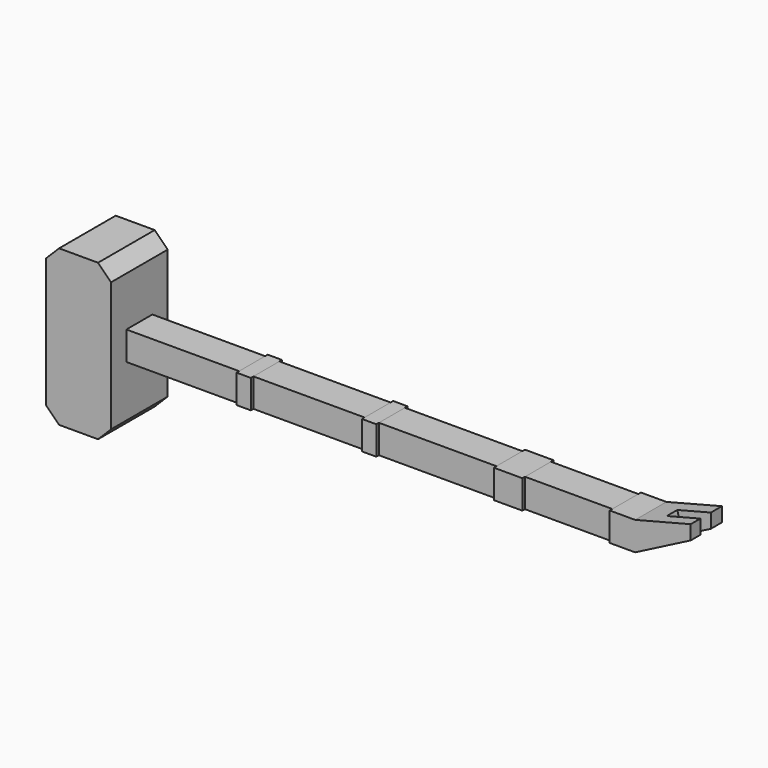
from build123d import *

# Parameters (mm, degrees)
F0_W     = 22.041556
F0_H     = 5.588
F0_W_2   = 21.731113
F0_W_3   = 22.972888
F0_W_4   = 17.074447
F1_DEPTH = 3.175
F2_W     = 13.836319
F2_H     = 30.379739
F3_DEPTH = 12.7
F0_W_5   = 2.794
F4_DEPTH = 3.81
F5_W     = 6.777749
F5_H     = 2.552284
F6_DEPTH = 12.7
F7_SIZE  = 2.54


with BuildPart() as f1:
    # F0 (on Front) → F1 (new body, symmetric)
    with BuildSketch(Plane.XZ):
        with Locations((-35.545891, 31.044446)):
            Rectangle(F0_W, F0_H)
        with Locations((-10.865557, 31.044446)):
            Rectangle(F0_W_2, F0_H)
        with Locations((14.280444, 31.044446)):
            Rectangle(F0_W_3, F0_H)
        with Locations((39.892111, 31.044446)):
            Rectangle(F0_W_4, F0_H)
    extrude(amount=F1_DEPTH, both=True)

    # F2 (on face) → F3 (join)
    with BuildSketch(Plane(origin=(-46.566669, 0, 0), x_dir=(0, -1, 0), z_dir=(-1, 0, 0))):
        with Locations((1e-06, 30.830921)):
            Rectangle(F2_W, F2_H)
    extrude(amount=F3_DEPTH)

    # F7
    f7_edges = [f1.edges().sort_by_distance(p)[0] for p in [
        (-59.266669, 0, 46.020791),
        (-59.266669, 0, 15.641052),
        (-46.566669, 0, 15.641052),
        (-46.566669, 0, 46.020791),
    ]]
    chamfer(f7_edges, length=F7_SIZE)


with BuildPart() as f4:
    # F0 (on Front) → F4 (new body, symmetric)
    with BuildSketch(Plane.XZ):
        with Locations((27.163888, 31.044446)):
            Rectangle(F0_W_5, F0_H)
        with Locations((29.957888, 31.044446)):
            Rectangle(F0_W_5, F0_H)
        Polygon((53.396446, 33.838446), (48.429335, 33.838446), (48.429335, 28.250446), (53.396446, 28.250446), (64.262, 33.838446), (64.262, 36.632446), align=None)
        with Locations((-23.128113, 31.044446)):
            Rectangle(F0_W_5, F0_H)
        with Locations((1.397, 31.044446)):
            Rectangle(F0_W_5, F0_H)
    extrude(amount=F4_DEPTH, both=True)

    # F5 (on face) → F6 (cut, symmetric)
    with BuildSketch(Plane(origin=(-4.849922, 0, 18.860806), x_dir=(0.968493, 0, 0.249041), z_dir=(-0.249041, 0, 0.968493))):
        with Locations((67.971401, -0.166117)):
            Rectangle(F5_W, F5_H)
    extrude(amount=F6_DEPTH, both=True, mode=Mode.SUBTRACT)


solid = Compound([f1.part, f4.part])
